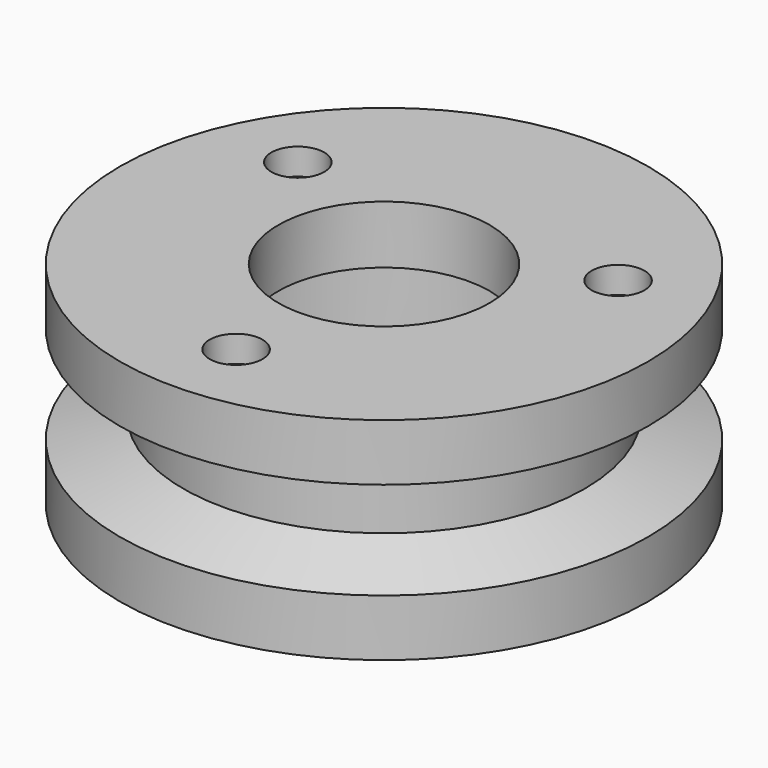
from build123d import *

# Parameters (mm, degrees)
SKETCH003_R     = 1.05
POCKET001_DEPTH = 13.5
SKETCH004_R     = 1.35
POCKET_DEPTH    = 7.451
SKETCH005_R     = 2.5
POCKET002_DEPTH = 2.5


with BuildPart() as f_2_screwholes_pocket:
    # Sketch → Revolution001 (revolve)
    with BuildSketch(Plane.XZ):
        Polygon((13.75, -10), (25, -10), (25, -4.615966), (19, -2.55), (19, 4.5), (16, 4.5), (16, -4.5), (14.25, -4.5), (14.25, -9), (13.75, -9), align=None)
    revolve(axis=Axis((0, 0, 0), (0, 0, 1)))

    # Sketch003 → Pocket001 (cut)
    with BuildSketch(Plane(origin=(0, 0, 4.5), x_dir=(-1, 0, 0), z_dir=(0, 0, 1))):
        with Locations((0, 17.5)):
            Circle(SKETCH003_R)
        with Locations((-15.155445, -8.75)):
            Circle(SKETCH003_R)
        with Locations((15.155445, -8.75)):
            Circle(SKETCH003_R)
    extrude(amount=-POCKET001_DEPTH, mode=Mode.SUBTRACT)


with BuildPart() as f_3_screwcounterboreholes_pocket:
    # Sketch001 → Revolution (revolve)
    with BuildSketch(Plane.XZ):
        Polygon((19, 2.55), (25, 4.615966), (25, 10), (10, 10), (10, 4.5), (19, 4.5), align=None)
    revolve(axis=Axis((0, 0, 0), (0, 0, 1)))

    # Sketch004 → Pocket (cut, through all)
    with BuildSketch(Plane(origin=(0, 0, 10), x_dir=(-1, 0, 0), z_dir=(0, 0, 1))):
        with Locations((0, 17.5)):
            Circle(SKETCH004_R)
        with Locations((-15.155445, -8.75)):
            Circle(SKETCH004_R)
        with Locations((15.155445, -8.75)):
            Circle(SKETCH004_R)
    extrude(amount=-POCKET_DEPTH, mode=Mode.SUBTRACT)

    # Sketch005 → Pocket002 (cut)
    with BuildSketch(Plane(origin=(0, 0, 10), x_dir=(-1, 0, 0), z_dir=(0, 0, 1))):
        with Locations((0, 17.5)):
            Circle(SKETCH005_R)
        with Locations((-15.155445, -8.75)):
            Circle(SKETCH005_R)
        with Locations((15.155445, -8.75)):
            Circle(SKETCH005_R)
    extrude(amount=-POCKET002_DEPTH, mode=Mode.SUBTRACT)


solid = Compound([f_2_screwholes_pocket.part, f_3_screwcounterboreholes_pocket.part])
